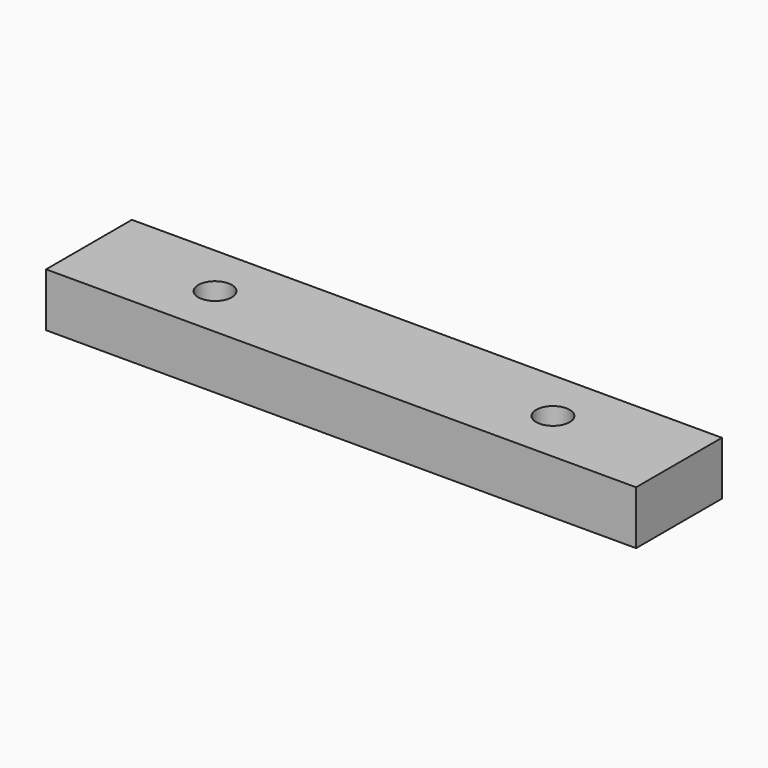
from build123d import *

# Parameters (mm, degrees)
F0_W     = 558.8
F0_H     = 101.6
F1_DEPTH = 50.8
F2_R     = 15.875
F3_DEPTH = 50.801


with BuildPart() as f1:
    # F0 (on Top) → F1 (new body)
    with BuildSketch(Plane.XY):
        Rectangle(F0_W, F0_H)
    extrude(amount=-F1_DEPTH)

    # F2 (on face) → F3 (cut, through all)
    with BuildSketch(Plane.XY):
        with BuildLine():
            ThreePointArc((-175.895, 0), (-160.02, -15.875), (-144.145, 0))
            ThreePointArc((-144.145, 0), (-160.02, 15.875), (-175.895, 0))
        make_face()
        with Locations((160.02, 0)):
            Circle(F2_R)
    extrude(amount=-F3_DEPTH, mode=Mode.SUBTRACT)


solid = f1.part
